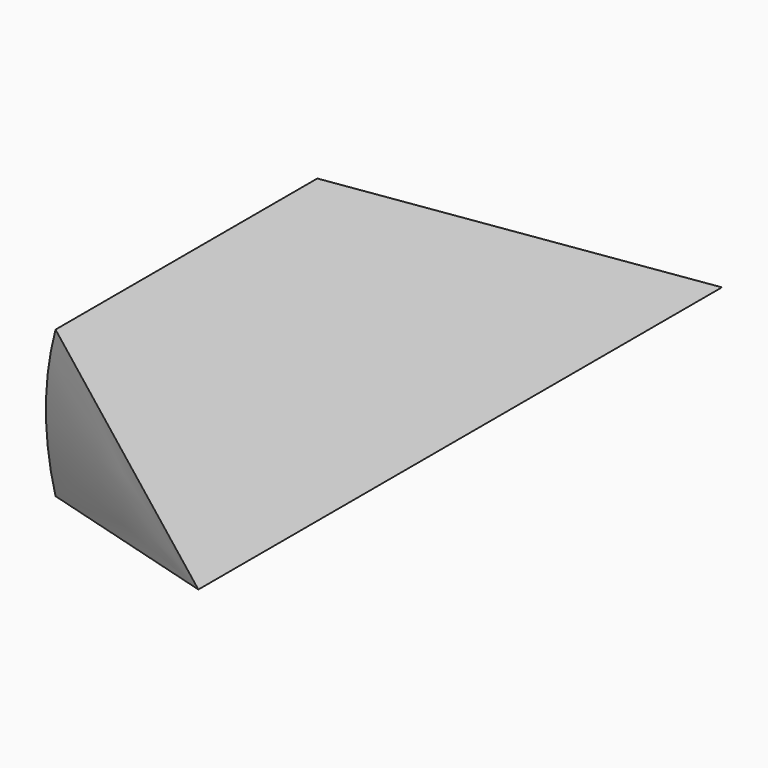
from build123d import *

# Parameters (mm, degrees)
F1_ANGLE_BACK = 15
F1_ANGLE      = 30


with BuildPart() as f1:
    # F0 (on Top) → F1 (revolve)
    with BuildSketch(Plane.XY, mode=Mode.PRIVATE) as f1_sk:
        Polygon((-27.2269714624, -15.719499303), (0, -31.438998606), (0, 31.438998606), (-27.2269714624, 15.719499303), align=None)
    revolve(f1_sk.sketch.rotate(Axis((0, -0.3986507654, 0), (0, 1, 0)), -F1_ANGLE_BACK), axis=Axis((0, -0.3986507654, 0), (0, 1, 0)), revolution_arc=F1_ANGLE)


solid = f1.part
